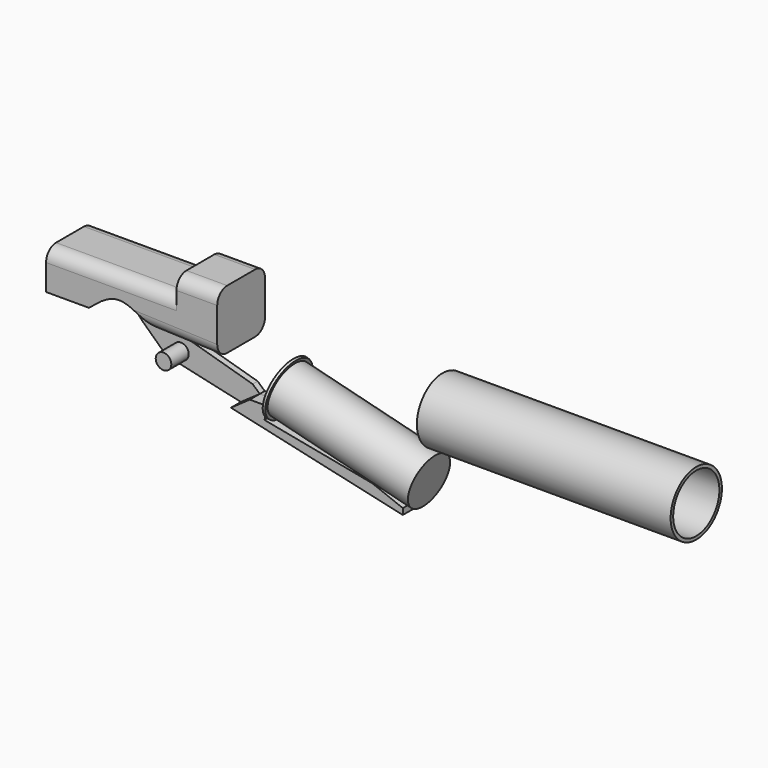
from build123d import *

# Parameters (mm, degrees)
F1_DEPTH = 15.24
F0_R     = 3.9731060398
F0_R_2   = 3.0736063734
F2_DEPTH = 1.5875
F3_DEPTH = 12.7
F4_DEPTH = 1.5875
F5_R     = 6.35
F7_DEPTH = 6.35
F0_W     = 129.4614523649
F0_H     = 1.6299113631


with BuildPart() as f1:
    # F0 (on Front) → F1 (new body, symmetric)
    with BuildSketch(Plane.XZ):
        with BuildLine():
            Line((86.6997018456, 111.6525381804), (118.946261704, 110.4492247105))
            Line((118.946261704, 110.4492247105), (118.946261704, 140.7041400671))
            Line((118.946261704, 140.7041400671), (98.146006465, 140.7041400671))
            Line((98.146006465, 140.7041400671), (98.146006465, 131.5932869911))
            Line((98.146006465, 131.5932869911), (61.9845092297, 131.5932869911))
            Line((61.9845092297, 131.5932869911), (31.6195674241, 131.5932869911))
            Line((31.6195674241, 131.5932869911), (31.6195674241, 111.996345222))
            Line((31.6195674241, 111.996345222), (53.4512475133, 111.996345222))
            add(Edge.make_bspline(
                [(53.4512475133, 111.996345222), (58.3168306673, 116.1252412176), (68.453958846, 124.7275292928), (80.4575514371, 116.1256945279), (86.6997018456, 111.6525381804)],
                knots=[0, 0, 0, 0, 0.4799764853, 1, 1, 1, 1], degree=3))
        make_face()
    extrude(amount=F1_DEPTH, both=True)

    # F5
    f5_edges = [f1.edges().sort_by_distance(p)[0] for p in [
        (108.546134, -15.24, 140.70414),
        (108.546134, 15.24, 140.70414),
        (64.882787, -15.24, 131.593287),
        (64.882787, 15.24, 131.593287),
        (102.822982, -15.24, 111.050881),
        (102.822982, 15.24, 111.050881),
    ]]
    fillet(f5_edges, radius=F5_R)


with BuildPart() as f2:
    # F0 (on Front) → F2 (new body, symmetric)
    with BuildSketch(Plane.XZ):
        with BuildLine():
            Line((93.0258051353, 105.357555367), (92.3684626431, 105.5471538964))
            ThreePointArc((92.3684626431, 105.5471538964), (96.9946369471, 98.9133964686), (92.9022758123, 91.9376666398))
            Line((92.9022758123, 91.9376666398), (207.791640524, 66.1663692981))
            Line((207.791640524, 66.1663692981), (207.791640524, 69.2587812037))
            Line((207.791640524, 69.2587812037), (192.2845032771, 75.3275844649))
            Line((192.2845032771, 75.3275844649), (137.2056572242, 85.8992456725))
            Line((137.2056572242, 85.8992456725), (139.0773238139, 92.5864348974))
            Line((139.0773238139, 92.5864348974), (129.7239542488, 92.5864348974))
            Line((129.7239542488, 92.5864348974), (126.1126250029, 95.8142617838))
            Line((126.1126250029, 95.8142617838), (93.0258051353, 105.357555367))
        make_face()
        with BuildLine():
            Line((92.3684626431, 105.5471538964), (90.7687973852, 106.0085483505))
            ThreePointArc((90.7687973852, 106.0085483505), (89.5039578812, 106.116024046), (88.2391183773, 106.0085483505))
            ThreePointArc((88.2391183773, 106.0085483505), (82.5179147523, 101.3383714123), (83.5771539377, 94.0294223839))
            Line((83.5771539377, 94.0294223839), (92.9022758123, 91.9376666398))
            ThreePointArc((92.9022758123, 91.9376666398), (96.9946369471, 98.9133964686), (92.3684626431, 105.5471538964))
        make_face()
        with Locations((89.5039578812, 98.6195850225)):
            Circle(F0_R, mode=Mode.SUBTRACT)
        with BuildLine():
            ThreePointArc((83.5771539377, 94.0294223839), (82.5179147523, 101.3383714123), (88.2391183773, 106.0085483505))
            Line((88.2391183773, 106.0085483505), (69.6638524261, 106.0085483505))
            Line((69.6638524261, 106.0085483505), (81.9616011421, 94.3918135554))
            Line((81.9616011421, 94.3918135554), (83.5771539377, 94.0294223839))
        make_face()
        with BuildLine():
            ThreePointArc((88.2391183773, 106.0085483505), (89.5039578812, 106.116024046), (90.7687973852, 106.0085483505))
            ThreePointArc((90.7687973852, 106.0085483505), (91.5814785736, 105.8223973764), (92.3684626431, 105.5471538964))
            Line((92.3684626431, 105.5471538964), (93.0258051353, 105.357555367))
            Line((93.0258051353, 105.357555367), (90.7626391127, 107.4478176521))
            add(Edge.make_bspline(
                [(64.5098686218, 111.7411181331), (63.9137016058, 112.5668330608), (62.5343781835, 114.4772433317), (66.0422163293, 120.1249758602), (76.4095139275, 119.3635573559), (85.4079513498, 111.8933308188), (90.7626391127, 107.4478176521)],
                knots=[0, 0, 0, 0, 0.1519197497, 0.3514801969, 0.6140421636, 1, 1, 1, 1], degree=3))
            Line((64.5098686218, 111.7411181331), (69.6638524261, 106.0085483505))
            Line((69.6638524261, 106.0085483505), (88.2391183773, 106.0085483505))
        make_face()
        with Locations((69.2448988557, 115.1391863823)):
            Circle(F0_R_2, mode=Mode.SUBTRACT)
    extrude(amount=F2_DEPTH, both=True)

    # F0 (on Front) → F3 (join, symmetric)
    with BuildSketch(Plane.XZ):
        with Locations((89.5039578812, 98.6195850225)):
            Circle(F0_R)
    extrude(amount=F3_DEPTH, both=True)

    # F0 (on Front) → F4 (join, symmetric)
    with BuildSketch(Plane.XZ):
        with Locations((69.2448988557, 115.1391863823)):
            Circle(F0_R_2)
    extrude(amount=F4_DEPTH, both=True)


with BuildPart() as f7:
    # F6 (on face) → F7 (new body)
    with BuildSketch(Plane.XZ.offset(1.5875)):
        Polygon((139.0773238139, 92.5864348974), (129.7239542488, 92.5864348974), (120.093039846, 85.8383965584), (207.791640524, 66.1663692981), (207.791640524, 69.2587812037), (192.2845032771, 75.3275844649), (137.2056572242, 85.8992456725), align=None)
    extrude(amount=F7_DEPTH)


with BuildPart() as f8:
    # F0 (on Front) → F8 (revolve)
    with BuildSketch(Plane.XZ):
        Polygon((145.6326246262, 112.9116564989), (140.9199244391, 99.1347101404), (214.8047371471, 80.4940435456), (217.9560074791, 92.9845313235), (146.3668381612, 111.0460217455), (146.8612531956, 112.4913777275), align=None)
    revolve(axis=Axis((177.8623307931, 0, 89.814376843), (0.9696169647, 0, -0.2446281705)))


with BuildPart() as f9:
    # F0 (on Front) → F9 (revolve)
    with BuildSketch(Plane.XZ):
        with Locations((286.4464297891, 99.2938540876)):
            Rectangle(F0_W, F0_H)
    revolve(axis=Axis((229.2831465602, 0, 114.8408097692), (1, 0, 0)))


solid = Compound([f1.part, f2.part, f7.part, f8.part, f9.part])
